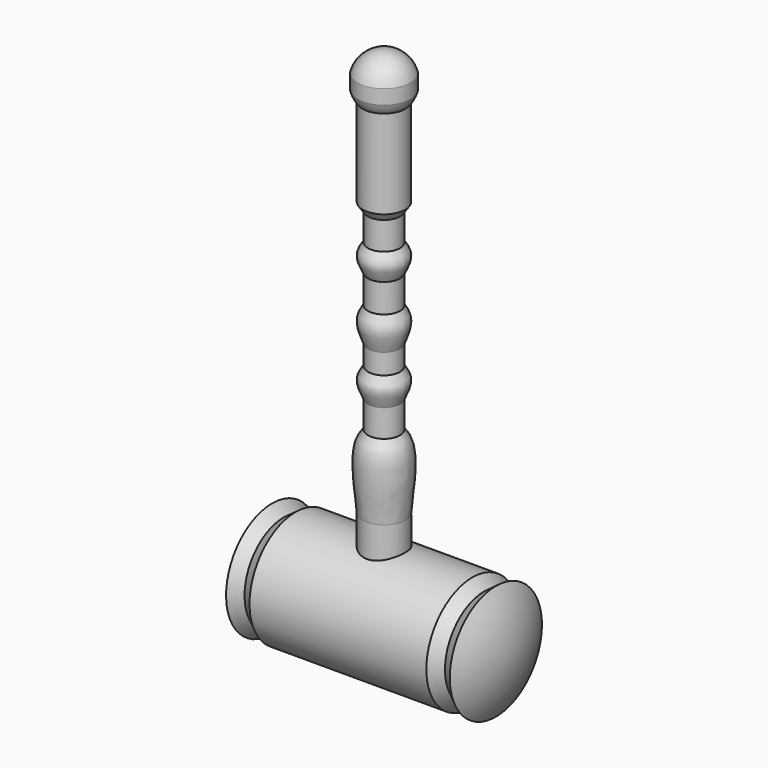
from build123d import *


with BuildPart() as f1:
    # F0 (on Front) → F1 (revolve)
    with BuildSketch(Plane.XZ):
        with BuildLine():
            Line((0, 52.7323525879), (0, 40.875408378))
            ThreePointArc((0, 40.875408378), (2.5428559752, 41.4484472615), (4.5941332355, 43.0567854329))
            ThreePointArc((4.5941332355, 43.0567854329), (5.2714168977, 44.0911428638), (5.7194354013, 45.2434830368))
            Line((5.7194354013, 45.2434830368), (5.7194354013, 48.3642779291))
            ThreePointArc((5.7194354013, 48.3642779291), (3.5983335565, 51.5154383055), (0, 52.7323525879))
        make_face()
        with BuildLine():
            ThreePointArc((4.5941332355, 43.0567854329), (2.5428559752, 41.4484472615), (0, 40.875408378))
            Line((0, 40.875408378), (0, -45.7190386951))
            Line((0, -45.7190386951), (3.4478881862, -45.7190386951))
            Line((3.4478881862, -45.7190386951), (3.4478881862, -19.2569392537))
            add(Edge.make_bspline(
                [(3.4478881862, -13.3570219138), (2.8592867201, -14.6215324154), (1.6885418308, -17.0881375195), (2.8291799419, -18.4821080295), (3.4478881862, -19.2569392537)],
                knots=[0.688463947, 0.688463947, 0.688463947, 0.688463947, 0.7466101854, 0.8030070578, 0.8030070578, 0.8030070578, 0.8030070578], degree=3))
            Line((3.4478881862, -13.3570219138), (3.4478881862, -7.214912314))
            add(Edge.make_bspline(
                [(3.4478881862, -2.8591748229), (3.0716325194, -3.8760817958), (2.5489190603, -5.5383480748), (3.1511995592, -6.7331145443), (3.4478881862, -7.214912314)],
                knots=[0.4920828694, 0.4920828694, 0.4920828694, 0.4920828694, 0.5392256635, 0.5731916963, 0.5731916963, 0.5731916963, 0.5731916963], degree=3))
            Line((3.4478881862, -2.8591748229), (3.4478881862, 4.3427177675))
            add(Edge.make_bspline(
                [(3.4478881862, 10.5023898497), (2.8570440893, 9.3644165827), (1.6733580005, 7.094819903), (2.8612423375, 5.2737567308), (3.4478881862, 4.3427177675)],
                knots=[0.2610073473, 0.2610073473, 0.2610073473, 0.2610073473, 0.3169983169, 0.372231172, 0.372231172, 0.372231172, 0.372231172], degree=3))
            Line((3.4478881862, 10.5023898497), (3.4478881862, 16.2601063118))
            add(Edge.make_bspline(
                [(3.4478881862, 22.269270102), (2.5941060701, 21.0188723902), (1.3322312845, 18.8748269949), (2.8529664918, 17.0479984025), (3.4478881862, 16.2601063118)],
                knots=[0.0322061563, 0.0322061563, 0.0322061563, 0.0322061563, 0.1038810888, 0.1549480731, 0.1549480731, 0.1549480731, 0.1549480731], degree=3))
            add(Edge.make_bspline(
                [(4.5941332355, 23.9438803276), (4.2387639607, 23.3926426614), (3.8315235702, 22.8311193108), (3.4478881862, 22.269270102)],
                knots=[0, 0, 0, 0, 0.0322061563, 0.0322061563, 0.0322061563, 0.0322061563], degree=3))
            Line((4.5941332355, 23.9438803276), (4.5941332355, 43.0567854329))
        make_face()
        with BuildLine():
            Line((3.4478881862, -19.2569392537), (3.4478881862, -45.7190386951))
            Line((3.4478881862, -45.7190386951), (4.5941332355, -45.7190386951))
            Line((4.5941332355, -45.7190386951), (4.5941332355, -34.9797420204))
            add(Edge.make_bspline(
                [(3.4478881862, -19.2569392537), (3.8524540819, -19.7635920922), (6.1440033012, -22.672173393), (5.1174351412, -29.440924003), (4.5941332355, -34.9797420204)],
                knots=[0.8030070578, 0.8030070578, 0.8030070578, 0.8030070578, 0.8398842958, 1, 1, 1, 1], degree=3))
        make_face()
        with BuildLine():
            Line((3.4478881862, 22.1658609807), (3.4478881862, 22.269270102))
            add(Edge.make_bspline(
                [(3.4478881862, 22.269270102), (2.5941060701, 21.0188723902), (1.3322312845, 18.8748269949), (2.8529664918, 17.0479984025), (3.4478881862, 16.2601063118)],
                knots=[0.0322061563, 0.0322061563, 0.0322061563, 0.0322061563, 0.1038810888, 0.1549480731, 0.1549480731, 0.1549480731, 0.1549480731], degree=3))
            Line((3.4478881862, 16.2601063118), (3.4478881862, 22.1658609807))
        make_face()
        with BuildLine():
            add(Edge.make_bspline(
                [(3.4478881862, -13.3570219138), (2.8592867201, -14.6215324154), (1.6885418308, -17.0881375195), (2.8291799419, -18.4821080295), (3.4478881862, -19.2569392537)],
                knots=[0.688463947, 0.688463947, 0.688463947, 0.688463947, 0.7466101854, 0.8030070578, 0.8030070578, 0.8030070578, 0.8030070578], degree=3))
            Line((3.4478881862, -19.2569392537), (3.4478881862, -13.3570219138))
        make_face()
        with BuildLine():
            add(Edge.make_bspline(
                [(3.4478881862, 16.2601063118), (4.0076291368, 15.5188062853), (5.1693722085, 13.8280653656), (4.0600606664, 11.6814418551), (3.4478881862, 10.5023898497)],
                knots=[0.1549480731, 0.1549480731, 0.1549480731, 0.1549480731, 0.2029952069, 0.2610073473, 0.2610073473, 0.2610073473, 0.2610073473], degree=3))
            Line((3.4478881862, 16.2601063118), (3.4478881862, 10.5023898497))
        make_face()
        with BuildLine():
            Line((3.4478881862, -7.214912314), (3.4478881862, -13.3570219138))
            add(Edge.make_bspline(
                [(3.4478881862, -7.214912314), (3.9409970185, -8.0156802369), (5.1987251645, -9.5462290276), (4.0433028257, -12.0778744637), (3.4478881862, -13.3570219138)],
                knots=[0.5731916963, 0.5731916963, 0.5731916963, 0.5731916963, 0.6296446549, 0.688463947, 0.688463947, 0.688463947, 0.688463947], degree=3))
        make_face()
        with BuildLine():
            Line((3.4478881862, 4.3427177675), (3.4478881862, 10.5023898497))
            add(Edge.make_bspline(
                [(3.4478881862, 10.5023898497), (2.8570440893, 9.3644165827), (1.6733580005, 7.094819903), (2.8612423375, 5.2737567308), (3.4478881862, 4.3427177675)],
                knots=[0.2610073473, 0.2610073473, 0.2610073473, 0.2610073473, 0.3169983169, 0.372231172, 0.372231172, 0.372231172, 0.372231172], degree=3))
        make_face()
        with BuildLine():
            add(Edge.make_bspline(
                [(3.4478881862, -2.8591748229), (3.0716325194, -3.8760817958), (2.5489190603, -5.5383480748), (3.1511995592, -6.7331145443), (3.4478881862, -7.214912314)],
                knots=[0.4920828694, 0.4920828694, 0.4920828694, 0.4920828694, 0.5392256635, 0.5731916963, 0.5731916963, 0.5731916963, 0.5731916963], degree=3))
            Line((3.4478881862, -7.214912314), (3.4478881862, -2.8591748229))
        make_face()
        with BuildLine():
            add(Edge.make_bspline(
                [(3.4478881862, 4.3427177675), (3.9738604296, 3.5079711254), (5.2405247997, 1.4357055196), (4.0092155805, -1.342074107), (3.4478881862, -2.8591748229)],
                knots=[0.372231172, 0.372231172, 0.372231172, 0.372231172, 0.4217515918, 0.4920828694, 0.4920828694, 0.4920828694, 0.4920828694], degree=3))
            Line((3.4478881862, 4.3427177675), (3.4478881862, -2.8591748229))
        make_face()
    revolve(axis=Axis((0, 0, -2.4218151586), (0, 0, 1)))

    # F2 (on Front) → F3 (revolve)
    with BuildSketch(Plane.XZ):
        with BuildLine():
            Line((19.0536882728, -41.1168672144), (0, -41.1168672144))
            Line((0, -41.1168672144), (0, -53.5302367061))
            Line((0, -53.5302367061), (27.9317204824, -53.5302367061))
            ThreePointArc((27.9317204824, -53.5302367061), (26.9548916276, -47.0361865237), (24.1108555347, -41.1168672144))
            Line((24.1108555347, -41.1168672144), (21.6025765985, -42.9510511458))
            Line((21.6025765985, -42.9510511458), (19.0536882728, -41.1168672144))
        make_face()
        with BuildLine():
            Line((0, -53.5302367061), (0, -41.1168672144))
            Line((0, -41.1168672144), (-19.0536882728, -41.1168672144))
            Line((-19.0536882728, -41.1168672144), (-21.6025765985, -42.9510511458))
            Line((-21.6025765985, -42.9510511458), (-24.1108555347, -41.1168672144))
            ThreePointArc((-24.1108555347, -41.1168672144), (-26.9548916276, -47.0361865237), (-27.9317204824, -53.5302367061))
            Line((-27.9317204824, -53.5302367061), (0, -53.5302367061))
        make_face()
    revolve(axis=Axis((-13.9658602412, 0, -53.5302367061), (1, 0, 0)))


solid = f1.part
